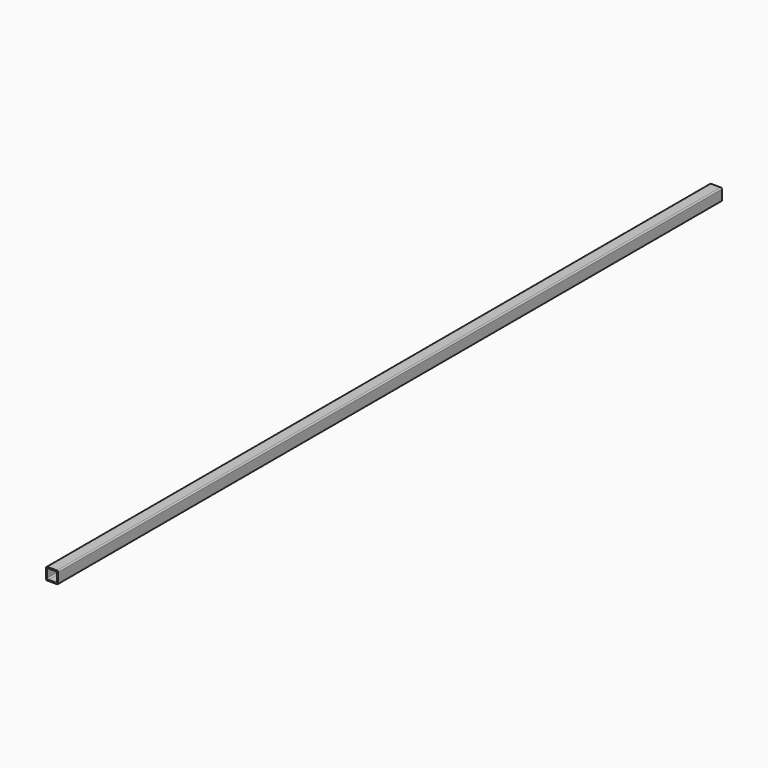
from build123d import *

# Parameters (mm, degrees)
F0_W     = 50.8
F0_H     = 50.8
F0_W_2   = 41.275
F0_H_2   = 41.275
F1_DEPTH = 1736.725
F2_R     = 5.08


with BuildPart() as f1:
    # F0 (on Front) → F1 (new body, symmetric)
    with BuildSketch(Plane.XZ):
        Rectangle(F0_W, F0_H)
        Rectangle(F0_W_2, F0_H_2, mode=Mode.SUBTRACT)
    extrude(amount=F1_DEPTH, both=True)

    # F2
    f2_edges = [f1.edges().sort_by_distance(p)[0] for p in [
        (-25.4, 0, 25.4),
        (25.4, 0, 25.4),
        (-20.6375, 0, -20.6375),
        (20.6375, 0, -20.6375),
        (25.4, 0, -25.4),
        (-25.4, 0, -25.4),
    ]]
    fillet(f2_edges, radius=F2_R)


solid = f1.part
